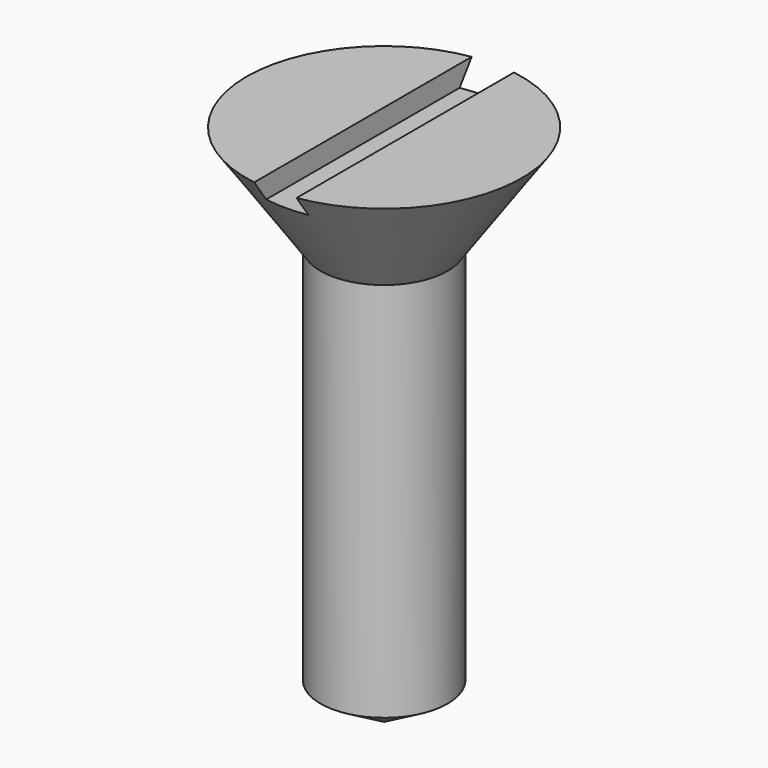
from build123d import *

# Parameters (mm, degrees)
F0_R     = 3
F1_DEPTH = 18
F7_DEPTH = 12.5


with BuildPart() as f1:
    # F0 (on Top) → F1 (new body)
    with BuildSketch(Plane.XY):
        Circle(F0_R)
    extrude(amount=F1_DEPTH)

    # F4 (on Front) → F5 (revolve)
    with BuildSketch(Plane.XZ):
        Polygon((-3, 18), (0, 18), (0, 23), (-6.5, 23), align=None)
    revolve(axis=Axis((0, 0, 20.5), (0, 0, 1)))

    # F6 (on Front) → F7 (cut, symmetric)
    with BuildSketch(Plane.XZ):
        Polygon((-1, 22), (0, 22), (1, 22), (1, 23), (-1, 23), align=None)
    extrude(amount=F7_DEPTH, both=True, mode=Mode.SUBTRACT)


with BuildPart() as f3:
    # F2 (on Front) → F3 (revolve)
    with BuildSketch(Plane.XZ):
        Polygon((3, 0), (0, 0), (0, -1.732051), align=None)
    revolve(axis=Axis((0, 0, -0.866025), (0, 0, 1)))


solid = Compound([f1.part, f3.part])
